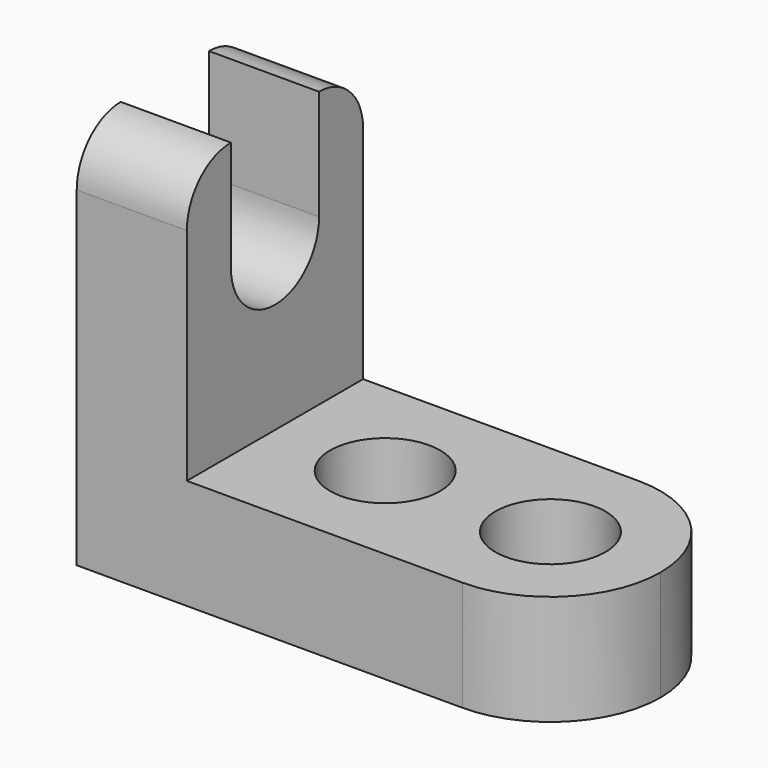
from build123d import *

# Parameters (mm, degrees)
F1_DEPTH = 25.4
F2_R     = 6.35
F3_DEPTH = 25.4
F5_DEPTH = 25.4


with BuildPart() as f1:
    # F0 (on Front) → F1 (new body)
    with BuildSketch(Plane.XZ):
        Polygon((0, 44.45), (0, 0), (57.15, 0), (57.15, 12.7), (12.7, 12.7), (12.7, 44.45), align=None)
    extrude(amount=F1_DEPTH)

    # F2 (on face) → F3 (cut)
    with BuildSketch(Plane.XY.offset(12.7)):
        with Locations((44.45, -12.7)):
            Circle(F2_R)
        with Locations((25.4, -12.7)):
            Circle(F2_R)
        with BuildLine():
            ThreePointArc((44.45, 0), (53.430256, -3.719744), (57.15, -12.7))
            Line((57.15, -12.7), (57.15, 0))
            Line((57.15, 0), (44.45, 0))
        make_face()
        with BuildLine():
            ThreePointArc((57.15, -12.7), (53.430256, -21.680256), (44.45, -25.4))
            Line((44.45, -25.4), (57.15, -25.4))
            Line((57.15, -25.4), (57.15, -12.7))
        make_face()
    extrude(amount=-F3_DEPTH, mode=Mode.SUBTRACT)

    # F4 (on face) → F5 (cut)
    with BuildSketch(Plane.YZ.offset(12.7)):
        with BuildLine():
            Line((0, 44.45), (-6.35, 44.45))
            ThreePointArc((-6.35, 44.45), (-1.859872, 42.590128), (0, 38.1))
            Line((0, 38.1), (0, 44.45))
        make_face()
        with BuildLine():
            ThreePointArc((-19.05, 31.75), (-12.7, 38.1), (-6.35, 31.75))
            Line((-6.35, 31.75), (-6.35, 44.45))
            Line((-6.35, 44.45), (-19.05, 44.45))
            Line((-19.05, 44.45), (-19.05, 31.75))
        make_face()
        with BuildLine():
            ThreePointArc((-19.05, 31.75), (-12.7, 25.4), (-6.35, 31.75))
            ThreePointArc((-6.35, 31.75), (-12.7, 38.1), (-19.05, 31.75))
        make_face()
        with BuildLine():
            ThreePointArc((-25.4, 38.1), (-23.540128, 42.590128), (-19.05, 44.45))
            Line((-19.05, 44.45), (-25.4, 44.45))
            Line((-25.4, 44.45), (-25.4, 38.1))
        make_face()
    extrude(amount=-F5_DEPTH, mode=Mode.SUBTRACT)


solid = f1.part
